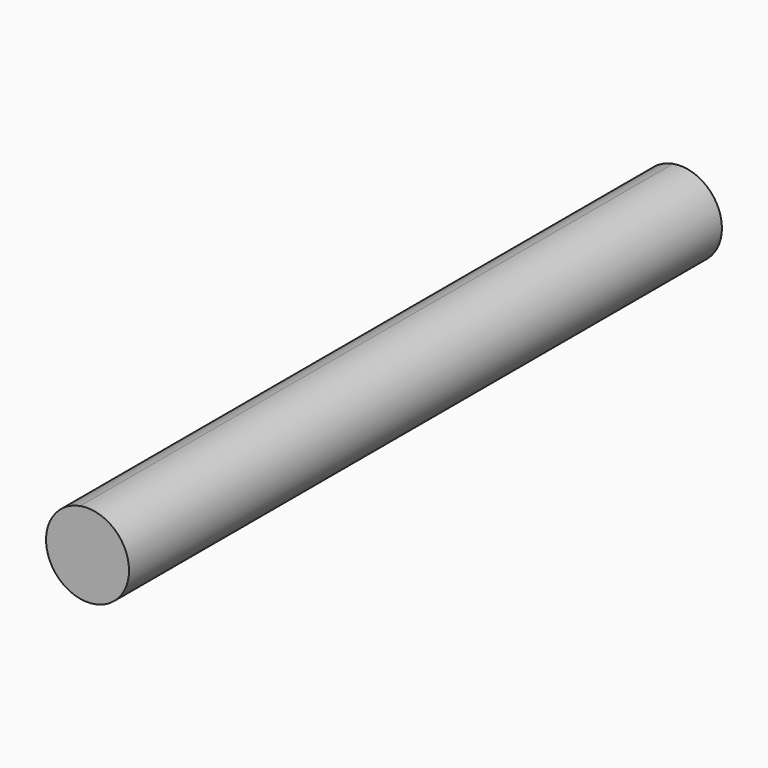
from build123d import *

# Parameters (mm, degrees)
F1_DEPTH = 254


with BuildPart() as f1:
    # F0 (on Front) → F1 (new body)
    with BuildSketch(Plane.XZ):
        with BuildLine():
            ThreePointArc((-7.749287, 11.928922), (-8.773711, 11.196992), (-9.729404, 10.377347))
            ThreePointArc((-9.729404, 10.377347), (6.379433, -12.714301), (-2.503483, 14.002971))
            ThreePointArc((-2.503483, 14.002971), (-5.230224, 13.228582), (-7.749287, 11.928922))
        make_face()
    extrude(amount=F1_DEPTH)


solid = f1.part
